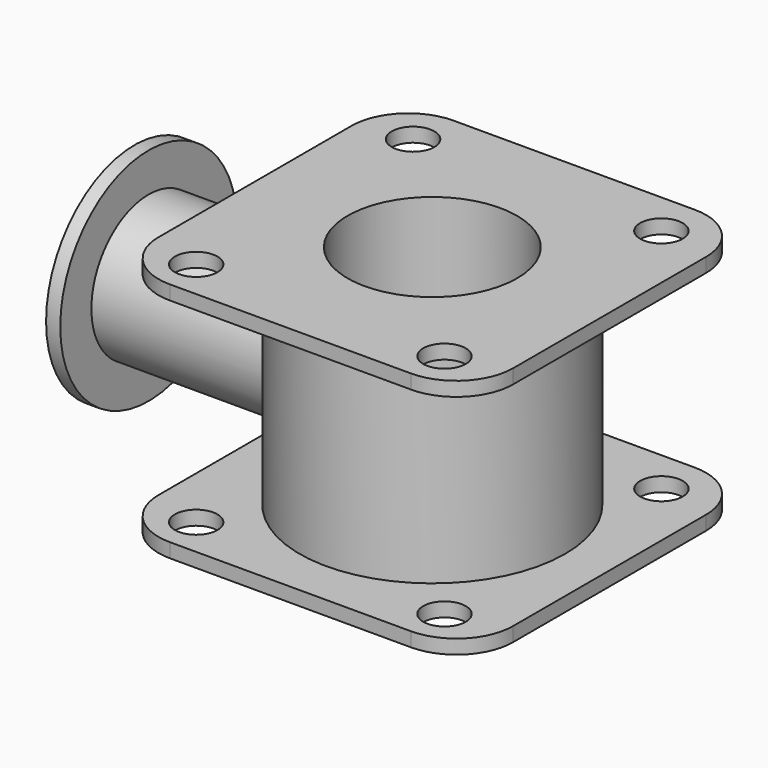
from build123d import *

# Parameters (mm, degrees)
F1_DEPTH  = 5.08
F2_R      = 47.561157
F3_DEPTH  = 76.2
F4_W      = 127
F4_H      = 127
F5_DEPTH  = 5.08
F6_R      = 20.32
F7_R      = 25.615644
F8_DEPTH  = 106.68
F9_R      = 39.551434
F9_R_2    = 25.615644
F10_DEPTH = 5.08
F12_D     = 15.24
F13_R     = 30.342929
F14_DEPTH = 254
F15_R     = 17.582128
F16_DEPTH = 101.6


with BuildPart() as f1:
    # F0 (on Top) → F1 (new body)
    with BuildSketch(Plane.XY):
        Polygon((63.5, -63.5), (63.5, 0), (63.5, 63.5), (0, 63.5), (-63.5, 63.5), (-63.5, 0), (-63.5, -63.5), (0, -63.5), align=None)
    extrude(amount=F1_DEPTH)

    # F2 (on face) → F3 (join)
    with BuildSketch(Plane.XY.offset(5.08)):
        Circle(F2_R)
    extrude(amount=F3_DEPTH)

    # F4 (on face) → F5 (join)
    with BuildSketch(Plane.XY.offset(81.28)):
        Rectangle(F4_W, F4_H)
    extrude(amount=F5_DEPTH)

    # F6
    f6_edges = [f1.edges().sort_by_distance(p)[0] for p in [
        (-63.5, 63.5, 2.54),
        (-63.5, 63.5, 83.82),
        (63.5, 63.5, 83.82),
        (63.5, 63.5, 2.54),
        (63.5, -63.5, 2.54),
        (63.5, -63.5, 83.82),
        (-63.5, -63.5, 83.82),
        (-63.5, -63.5, 2.54),
    ]]
    fillet(f6_edges, radius=F6_R)

    # F7 (on Right) → F8 (join)
    with BuildSketch(Plane.YZ):
        with Locations((0, 44.28339)):
            Circle(F7_R)
    extrude(amount=-F8_DEPTH)

    # F12 (through all)
    with Locations(Plane.XY.offset(86.36)):
        with Locations((-45.004573, 47.64301), (43.92904, 47.64301), (43.92904, -49.457978), (-45.004573, -49.457978)):
            Hole(F12_D / 2)

    # F13 (on face) → F14 (cut)
    with BuildSketch(Plane.XY.offset(86.36)):
        Circle(F13_R)
    extrude(amount=-F14_DEPTH, mode=Mode.SUBTRACT)

    # F15 (on face) → F16 (cut)
    with BuildSketch(Plane(origin=(-106.68, 0, 0), x_dir=(0, -1, 0), z_dir=(-1, 0, 0))):
        with Locations((0, 44.28339)):
            Circle(F15_R)
    extrude(amount=-F16_DEPTH, mode=Mode.SUBTRACT)


with BuildPart() as f10:
    # F9 (on face) → F10 (new body)
    with BuildSketch(Plane(origin=(-106.68, 0, 0), x_dir=(0, -1, 0), z_dir=(-1, 0, 0))):
        with Locations((0, 44.28339)):
            Circle(F9_R)
        with Locations((0, 44.28339)):
            Circle(F9_R_2, mode=Mode.SUBTRACT)
    extrude(amount=-F10_DEPTH)


solid = Compound([f1.part, f10.part])
